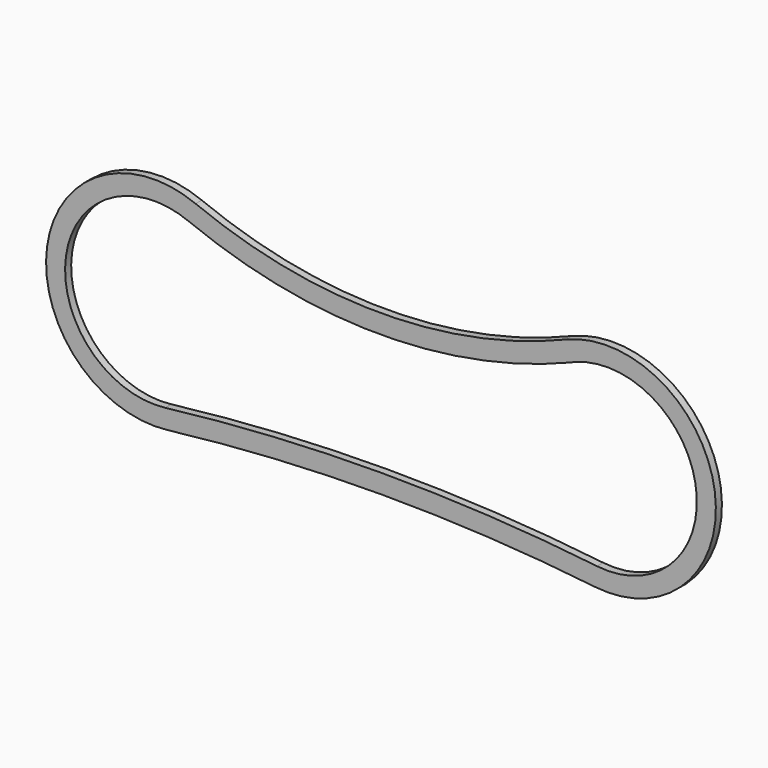
from build123d import *

# Parameters (mm, degrees)
F1_DEPTH = 20


with BuildPart() as f1:
    # F0 (on Front) → F1 (new body)
    with BuildSketch(Plane.XZ):
        with BuildLine():
            ThreePointArc((-575.276073, -283.535894), (-13.43211, -249.619942), (548.557665, -281.027318))
            ThreePointArc((548.557665, -281.027318), (863.797054, 42.135967), (472.103942, 266.606204))
            ThreePointArc((472.103942, 266.606204), (-14.367937, 169.627757), (-501.26791, 264.433483))
            ThreePointArc((-501.26791, 264.433483), (-891.955016, 38.216849), (-575.276073, -283.535894))
        make_face()
        with BuildLine():
            ThreePointArc((-581.179886, -233.885667), (-842.283064, 32.413932), (-518.471458, 217.444713))
            ThreePointArc((-518.471458, 217.444713), (-17.331035, 119.5998), (483.85336, 217.21923))
            ThreePointArc((483.85336, 217.21923), (491.242064, 220.413793), (498.735616, 223.354006))
            ThreePointArc((498.735616, 223.354006), (814.804212, 31.195097), (554.239766, -231.35123))
            ThreePointArc((554.239766, -231.35123), (-13.543718, -199.620066), (-581.179886, -233.885667))
        make_face(mode=Mode.SUBTRACT)
    extrude(amount=F1_DEPTH)


solid = f1.part
